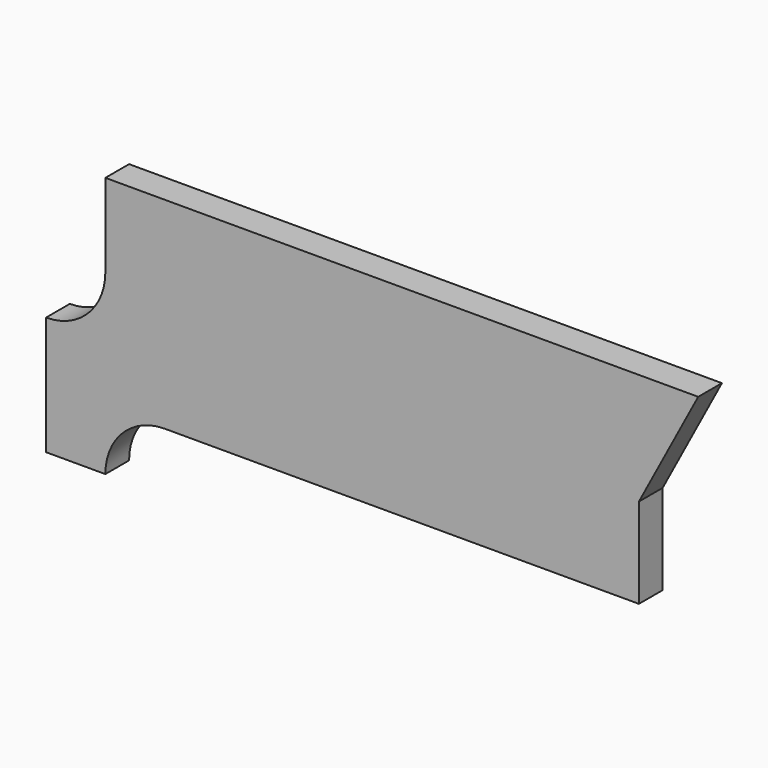
from build123d import *

# Parameters (mm, degrees)
F1_DEPTH = 6.35


with BuildPart() as f1:
    # F0 (on Front) → F1 (new body)
    with BuildSketch(Plane.XZ):
        with BuildLine():
            Line((102.548855, 17.78), (-24.451145, 17.78))
            Line((-24.451145, 17.78), (-24.451145, 0))
            ThreePointArc((-24.451145, 0), (-28.170889, -8.980256), (-37.151145, -12.7))
            Line((-37.151145, -12.7), (-37.151145, -38.1))
            Line((-37.151145, -38.1), (-24.451145, -38.1))
            ThreePointArc((-24.451145, -38.1), (-20.731401, -29.119744), (-11.751145, -25.4))
            Line((-11.751145, -25.4), (89.848855, -25.4))
            Line((89.848855, -25.4), (89.848855, -6.105226))
            Line((89.848855, -6.105226), (102.548855, 17.78))
        make_face()
    extrude(amount=F1_DEPTH)


solid = f1.part
